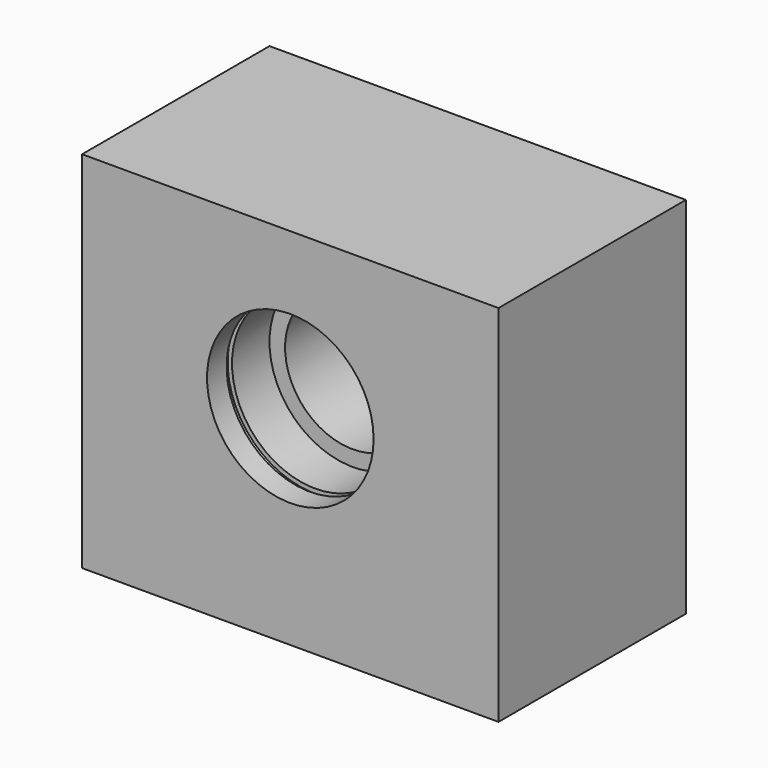
from build123d import *

# Parameters (mm, degrees)
F0_W           = 80
F0_H           = 70
F0_R           = 13
F1_DEPTH       = 45
F2_R           = 16
F3_DEPTH       = 15
F5_R           = 16.85
F6_DEPTH       = 1.3
F8_D           = 8
F8_DEPTH       = 36
F8_CBORE_D     = 8
F8_CBORE_DEPTH = 0
F8_TIP         = 2.4034424761


with BuildPart() as f1:
    # F0 (on Front) → F1 (new body)
    with BuildSketch(Plane.XZ):
        with Locations((40, 35)):
            Rectangle(F0_W, F0_H)
        with Locations((40, 40)):
            Circle(F0_R, mode=Mode.SUBTRACT)
    extrude(amount=F1_DEPTH)

    # F2 (on face) → F3 (cut)
    with BuildSketch(Plane.XZ.offset(45)):
        with Locations((40, 40)):
            Circle(F2_R)
    extrude(amount=-F3_DEPTH, mode=Mode.SUBTRACT)

    # F5 (on offset) → F6 (cut)
    with BuildSketch(Plane.XZ.offset(39)):
        with Locations((40, 40)):
            Circle(F5_R)
    extrude(amount=F6_DEPTH, mode=Mode.SUBTRACT)

    # F8
    with Locations(Plane(origin=(0, 0, 0), x_dir=(1, 0, 0), z_dir=(0, 0, -1))):
        with Locations((15, 22.5), (65, 22.5)):
            CounterBoreHole(F8_D / 2, F8_CBORE_D / 2, F8_CBORE_DEPTH, depth=F8_DEPTH)
            with Locations((0, 0, -(F8_DEPTH + F8_TIP / 2))):  # 118° drill point
                Cone(0, F8_D / 2, F8_TIP, mode=Mode.SUBTRACT)


solid = f1.part
